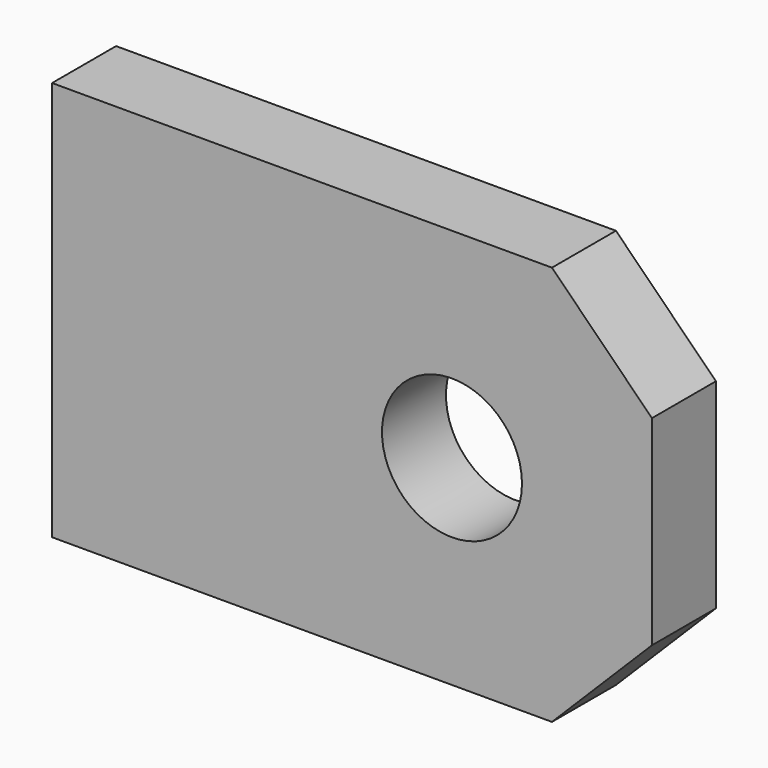
from build123d import *

# Parameters (mm, degrees)
F0_W     = 60
F0_H     = 40
F0_R     = 7
F1_DEPTH = 8
F2_SIZE  = 10


with BuildPart() as f1:
    # F0 (on Front) → F1 (new body)
    with BuildSketch(Plane.XZ):
        Rectangle(F0_W, F0_H)
        with Locations((10, 0)):
            Circle(F0_R, mode=Mode.SUBTRACT)
    extrude(amount=F1_DEPTH)

    # F2
    f2_edges = [f1.edges().sort_by_distance(p)[0] for p in [
        (30, -4, -20),
        (30, -4, 20),
    ]]
    chamfer(f2_edges, length=F2_SIZE)


solid = f1.part
